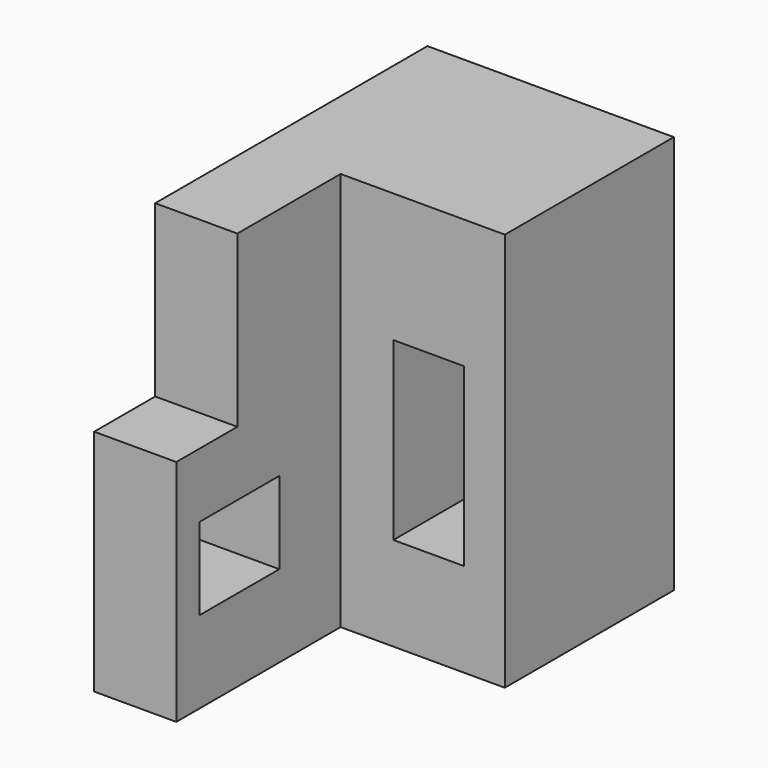
from build123d import *

# Parameters (mm, degrees)
F0_W     = 14
F0_H     = 39
F0_H_2   = 29
F1_DEPTH = 36
F2_W     = 14
F2_H     = 29
F3_DEPTH = 22
F4_W     = 14
F4_H     = 39
F5_DEPTH = 35
F6_W     = 17
F6_H     = 14
F7_DEPTH = 25
F8_W     = 12
F8_H     = 30
F9_DEPTH = 40


with BuildPart() as f1:
    # F0 (on Front) → F1 (new body)
    with BuildSketch(Plane.XZ):
        Polygon((-7, -34), (21, -34), (21, 34), (-7, 34), (-7, 5), align=None)
        with Locations((-14, -14.5)):
            Rectangle(F0_W, F0_H)
        with Locations((-14, 19.5)):
            Rectangle(F0_W, F0_H_2)
    extrude(amount=F1_DEPTH)

    # F2 (on face) → F3 (join)
    with BuildSketch(Plane.XZ.offset(36)):
        with Locations((-14, 19.5)):
            Rectangle(F2_W, F2_H)
    extrude(amount=F3_DEPTH)

    # F4 (on face) → F5 (join)
    with BuildSketch(Plane.XZ.offset(36)):
        with Locations((-14, -14.5)):
            Rectangle(F4_W, F4_H)
    extrude(amount=F5_DEPTH)

    # F6 (on face) → F7 (cut)
    with BuildSketch(Plane(origin=(-21, 0, 0), x_dir=(0, -1, 0), z_dir=(-1, 0, 0))):
        with Locations((57.56289, -13)):
            Rectangle(F6_W, F6_H)
    extrude(amount=-F7_DEPTH, mode=Mode.SUBTRACT)

    # F8 (on face) → F9 (cut)
    with BuildSketch(Plane.XZ.offset(36)):
        with Locations((8, -3)):
            Rectangle(F8_W, F8_H)
    extrude(amount=-F9_DEPTH, mode=Mode.SUBTRACT)


solid = f1.part
